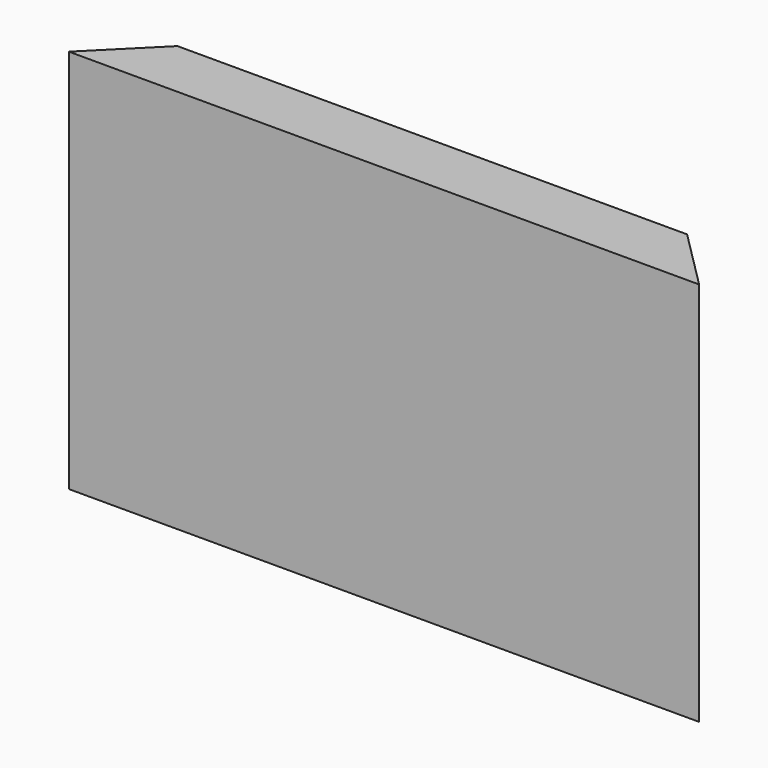
from build123d import *

# Parameters (mm, degrees)
F0_W     = 124.714
F0_H     = 76.2
F1_DEPTH = 11.938
F3_DEPTH = 76.201
F5_DEPTH = 76.201


with BuildPart() as f1:
    # F0 (on Front) → F1 (new body)
    with BuildSketch(Plane.XZ):
        with Locations((62.357, -38.1)):
            Rectangle(F0_W, F0_H)
    extrude(amount=F1_DEPTH)

    # F2 (on face) → F3 (cut, through all)
    with BuildSketch(Plane(origin=(0, 0, -76.2), x_dir=(1, 0, 0), z_dir=(0, 0, -1))):
        Polygon((11.938, 0), (0, 11.938), (0, 0), align=None)
    extrude(amount=-F3_DEPTH, mode=Mode.SUBTRACT)

    # F4 (on face) → F5 (cut, through all)
    with BuildSketch(Plane(origin=(0, 0, -76.2), x_dir=(1, 0, 0), z_dir=(0, 0, -1))):
        Polygon((124.714, 0), (124.714, 11.938), (112.776, 0), align=None)
    extrude(amount=-F5_DEPTH, mode=Mode.SUBTRACT)


solid = f1.part
